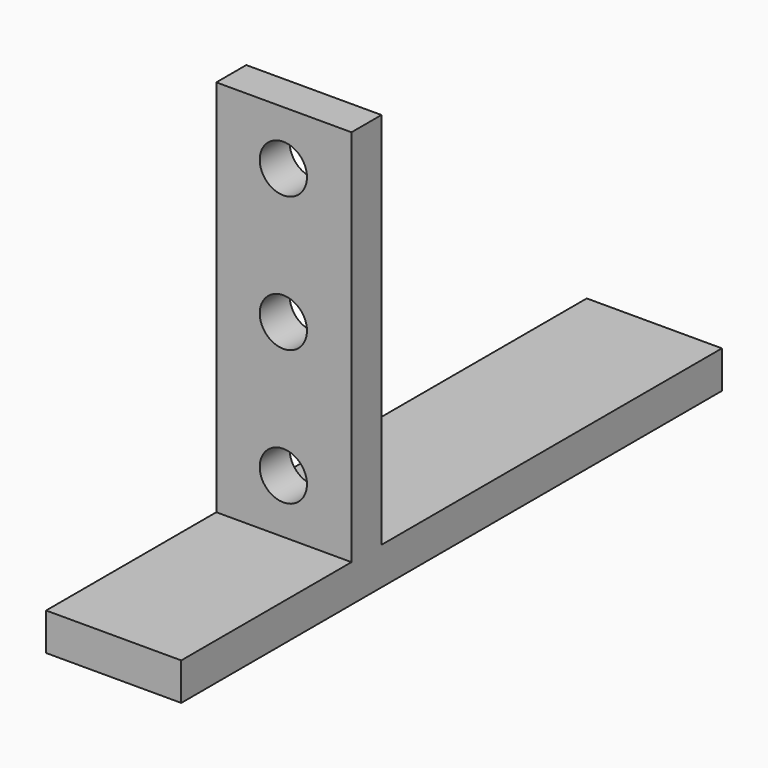
from build123d import *

# Parameters (mm, degrees)
SKETCH_W       = 15.88
SKETCH_H       = 44.46
SKETCH_R       = 2.775
PAD_DEPTH      = 4.4
PAD_FACE1_W    = 4.4
PAD_FACE1_H    = 15.88
PAD001_DEPTH   = 4.4
PAD001_FACE6_W = 15.88
PAD001_FACE6_H = 4.4
PAD002_DEPTH   = 50
PAD002_FACE7_W = 15.88
PAD002_FACE7_H = 4.4
PAD003_DEPTH   = 25


with BuildPart() as part:
    # Sketch → Pad (new body)
    with BuildSketch(Plane.XZ):
        with Locations((7.94, 22.23)):
            Rectangle(SKETCH_W, SKETCH_H)
        with Locations((7.874, 6.35)):
            Circle(SKETCH_R, mode=Mode.SUBTRACT)
        with Locations((7.874, 22.23)):
            Circle(SKETCH_R, mode=Mode.SUBTRACT)
        with Locations((7.874, 38.11)):
            Circle(SKETCH_R, mode=Mode.SUBTRACT)
    extrude(amount=PAD_DEPTH)

    # Pad Face1 → Pad001 (add)
    with BuildSketch(Plane(origin=(7.94, -2.2, 0), x_dir=(0, -1, 0), z_dir=(0, 0, -1))):
        Rectangle(PAD_FACE1_W, PAD_FACE1_H)
    extrude(amount=PAD001_DEPTH)

    # Pad001 Face6 → Pad002 (add)
    with BuildSketch(Plane(origin=(7.94, 0, -2.2), x_dir=(1, 0, 0), z_dir=(0, 1, 0))):
        Rectangle(PAD001_FACE6_W, PAD001_FACE6_H)
    extrude(amount=PAD002_DEPTH)

    # Pad002 Face7 → Pad003 (add)
    with BuildSketch(Plane(origin=(7.94, -4.4, -2.2), x_dir=(-1, 0, 0), z_dir=(0, -1, 0))):
        Rectangle(PAD002_FACE7_W, PAD002_FACE7_H)
    extrude(amount=PAD003_DEPTH)


solid = part.part
